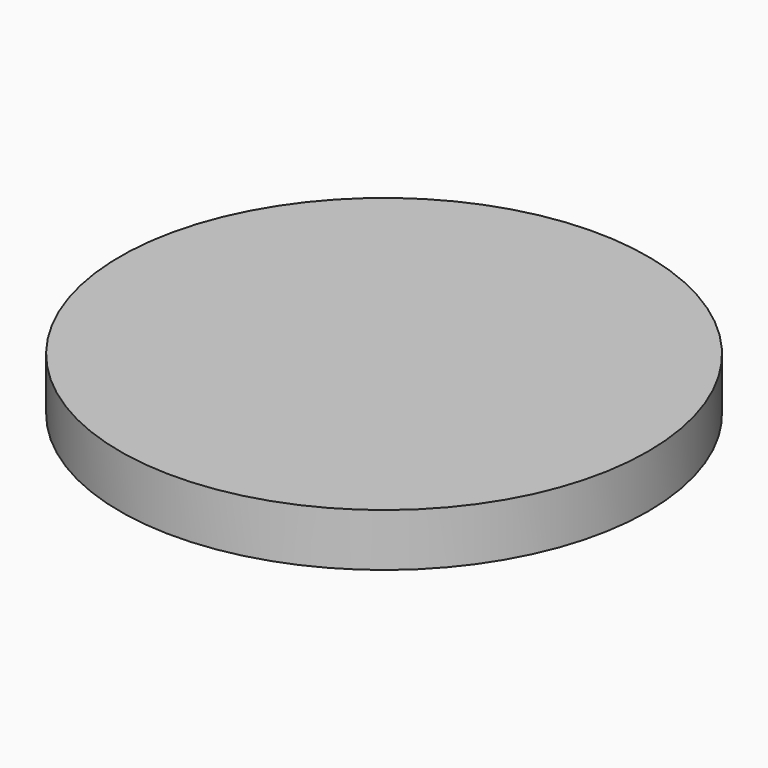
from build123d import *

# Parameters (mm, degrees)
F1_DEPTH = 10
F2_R     = 2
F3_R     = 2
F5_COUNT = 8
F5_ANGLE = 315
F6_R     = 50
F7_DEPTH = 10


with BuildPart() as f1:
    # F0 (on Top) → F1 (new body)
    with BuildSketch(Plane.XY):
        with BuildLine():
            ThreePointArc((-3.81112, 15.568507), (-1.066528, 17.338393), (0, 20.425107))
            Line((0, 20.425107), (0, 42.204858))
            ThreePointArc((0, 42.204858), (-1.678944, 45.942583), (-5.588235, 47.170135))
            ThreePointArc((-5.588235, 47.170135), (-16.245957, 44.635399), (-26.039542, 39.726468))
            ThreePointArc((-26.039542, 39.726468), (-28.245177, 36.273265), (-27.128759, 32.330797))
            Line((-27.128759, 32.330797), (-13.129006, 15.64654))
            ThreePointArc((-13.129006, 15.64654), (-10.327896, 13.967531), (-7.087756, 14.375909))
            ThreePointArc((-7.087756, 14.375909), (-5.481966, 15.061577), (-3.81112, 15.568507))
        make_face()
        with BuildLine():
            ThreePointArc((-22.920673, 35.488433), (-14.449232, 39.69894), (-5.253271, 41.918842))
            Line((-5.253271, 41.918842), (-5.253271, 20.622898))
            ThreePointArc((-5.253271, 20.622898), (-7.27869, 19.998036), (-9.231905, 19.174794))
            Line((-9.231905, 19.174794), (-22.920673, 35.488433))
        make_face(mode=Mode.SUBTRACT)
    extrude(amount=F1_DEPTH)

    # F2
    f2_edges = [f1.edges().sort_by_distance(p)[0] for p in [
        (-20.128883, 23.988668, 10),
    ]]
    fillet(f2_edges, radius=F2_R)

    # F3
    f3_edges = [f1.edges().sort_by_distance(p)[0] for p in [
        (-16.076289, 27.331614, 0),
        (-14.449232, 39.69894, 0),
        (-5.253271, 31.27087, 0),
        (-7.27869, 19.998036, 0),
        (-20.128883, 23.988668, 0),
    ]]
    fillet(f3_edges, radius=F3_R)


with BuildPart() as f5_1:
    # F5: instance of F1
    add(f1.part.rotate(Axis((0, 0, -0.31947), (0, 0, -1)), 1 * F5_ANGLE / (F5_COUNT - 1)))


with BuildPart() as f5_2:
    # F5: instance of F1
    add(f1.part.rotate(Axis((0, 0, -0.31947), (0, 0, -1)), 2 * F5_ANGLE / (F5_COUNT - 1)))


with BuildPart() as f5_3:
    # F5: instance of F1
    add(f1.part.rotate(Axis((0, 0, -0.31947), (0, 0, -1)), 3 * F5_ANGLE / (F5_COUNT - 1)))


with BuildPart() as f5_4:
    # F5: instance of F1
    add(f1.part.rotate(Axis((0, 0, -0.31947), (0, 0, -1)), 4 * F5_ANGLE / (F5_COUNT - 1)))


with BuildPart() as f5_5:
    # F5: instance of F1
    add(f1.part.rotate(Axis((0, 0, -0.31947), (0, 0, -1)), 5 * F5_ANGLE / (F5_COUNT - 1)))


with BuildPart() as f5_6:
    # F5: instance of F1
    add(f1.part.rotate(Axis((0, 0, -0.31947), (0, 0, -1)), 6 * F5_ANGLE / (F5_COUNT - 1)))


with BuildPart() as f5_7:
    # F5: instance of F1
    add(f1.part.rotate(Axis((0, 0, -0.31947), (0, 0, -1)), 7 * F5_ANGLE / (F5_COUNT - 1)))


with BuildPart() as f7:
    # F6 (on Top) → F7 (new body)
    with BuildSketch(Plane.XY):
        Circle(F6_R)
    extrude(amount=F7_DEPTH)


solid = Compound([f1.part, f5_1.part, f5_2.part, f5_3.part, f5_4.part, f5_5.part, f5_6.part, f5_7.part, f7.part])
